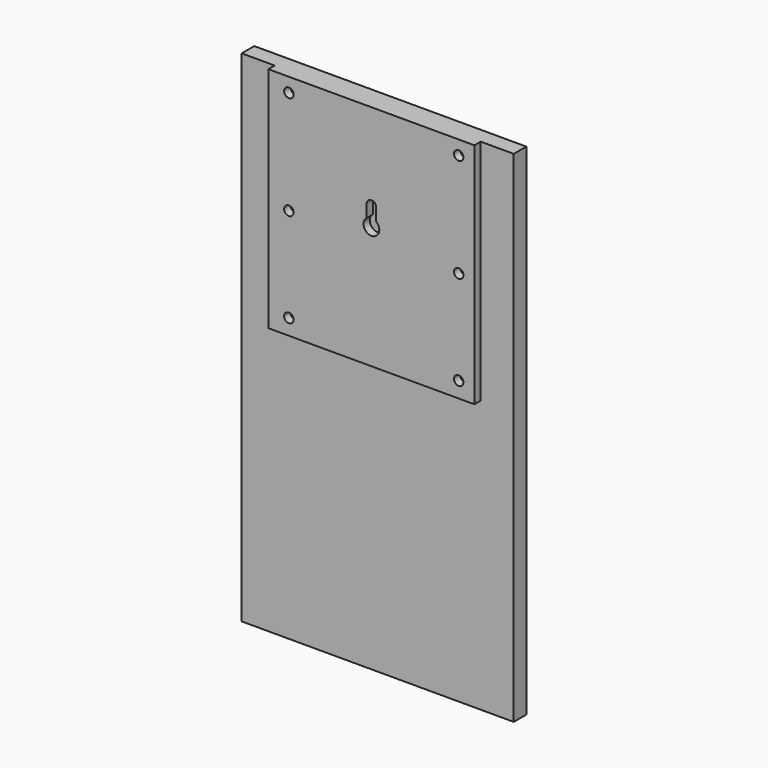
from build123d import *

# Parameters (mm, degrees)
SKETCH_W     = 173
SKETCH_H     = 318
PAD_DEPTH    = 10
SKETCH001_W  = 131
SKETCH001_H  = 145
PAD001_DEPTH = 5
SKETCH002_R  = 3
POCKET_DEPTH = 5


with BuildPart() as part:
    # Sketch → Pad (new body)
    with BuildSketch(Plane.XZ):
        Rectangle(SKETCH_W, SKETCH_H)
    extrude(amount=-PAD_DEPTH)

    # Sketch001 → Pad001 (join)
    with BuildSketch(Plane.XZ):
        with Locations((0, 86.5)):
            Rectangle(SKETCH001_W, SKETCH001_H)
    extrude(amount=PAD001_DEPTH)

    # Sketch002 → Pocket (cut)
    with BuildSketch(Plane.XZ):
        with Locations((-52.5, 150)):
            Circle(SKETCH002_R)
        with Locations((-52.5, 84)):
            Circle(SKETCH002_R)
        with Locations((-52.5, 24)):
            Circle(SKETCH002_R)
        with Locations((55.5, 150)):
            Circle(SKETCH002_R)
        with Locations((55.5, 84)):
            Circle(SKETCH002_R)
        with Locations((55.5, 24)):
            Circle(SKETCH002_R)
        with BuildLine():
            ThreePointArc((3, 104), (0, 107), (-3, 104))
            Line((-3, 104), (-3, 96))
            ThreePointArc((-3, 96), (0, 87), (3, 96))
            Line((3, 104), (3, 96))
        make_face()
    extrude(amount=POCKET_DEPTH, mode=Mode.SUBTRACT)


solid = part.part
